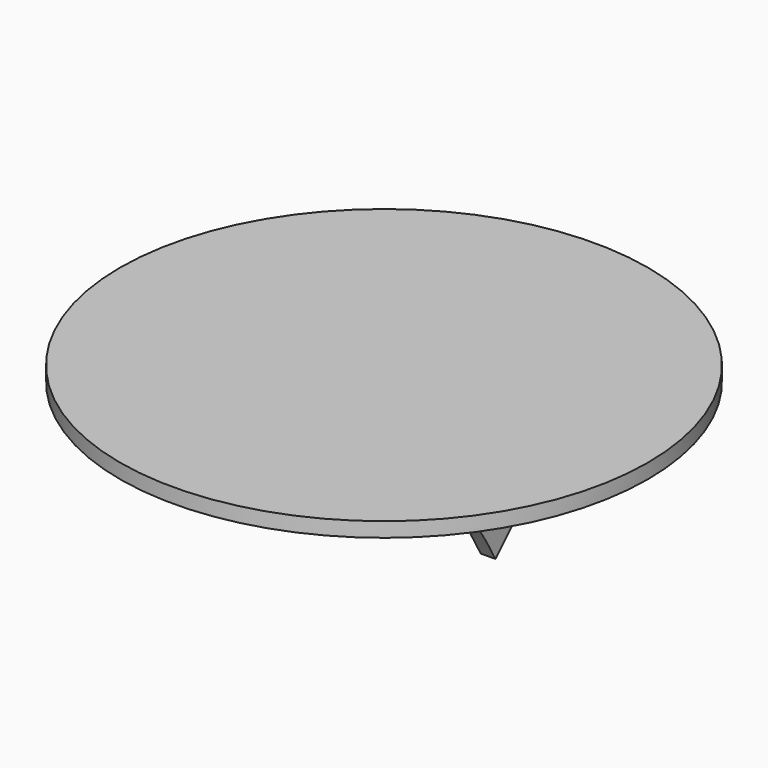
from build123d import *

# Parameters (mm, degrees)
F0_R     = 90
F1_DEPTH = 5
F2_W     = 5
F2_H     = 158.7411967465
F3_DEPTH = 60
F5_DEPTH = 105.001
F6_W     = 5
F6_H     = 24
F7_DEPTH = 60


with BuildPart() as f1:
    # F0 (on Top) → F1 (new body)
    with BuildSketch(Plane.XY):
        Circle(F0_R)
    extrude(amount=F1_DEPTH)

    # F2 (on face) → F3 (join)
    with BuildSketch(Plane(origin=(0, 0, 0), x_dir=(1, 0, 0), z_dir=(0, 0, -1))):
        with Locations((-12.5, -9.3705983732)):
            Rectangle(F2_W, F2_H)
        with Locations((12.5, -9.3705983732)):
            Rectangle(F2_W, F2_H)
    extrude(amount=F3_DEPTH)

    # F4 (on face) → F5 (cut, through all)
    with BuildSketch(Plane(origin=(-15, 0, 0), x_dir=(0, -1, 0), z_dir=(-1, 0, 0))):
        with BuildLine():
            ThreePointArc((70, 0), (12.2292809138, -16.1760337999), (-28.7411967465, -60))
            Line((-28.7411967465, -60), (70, -60))
            Line((70, -60), (70, 0))
        make_face()
        Polygon((-28.7411967465, -60), (-88.7411967465, 0), (-88.7411967465, -60), align=None)
        Polygon((-9.0120032018, -4), (-22.7056628406, -4), (-9.0120032018, -17.6936596388), align=None)
        with BuildLine():
            ThreePointArc((-4.0120032018, -21.6051015865), (9.9209150675, -11.7285602742), (25.1505452626, -4))
            Line((25.1505452626, -4), (-4.0120032018, -4))
            Line((-4.0120032018, -4), (-4.0120032018, -21.6051015865))
        make_face()
        with BuildLine():
            Line((-8.3792846836, -25.3974459688), (-26.2411967465, -7.5355339059))
            Line((-26.2411967465, -7.5355339059), (-26.2411967465, -46.0461292703))
            ThreePointArc((-26.2411967465, -46.0461292703), (-17.9185427782, -35.1955827376), (-8.3792846836, -25.3974459688))
        make_face()
    extrude(amount=-F5_DEPTH, mode=Mode.SUBTRACT)

    # F6 (on face) → F7 (join)
    with BuildSketch(Plane(origin=(-15, 0, 0), x_dir=(0, -1, 0), z_dir=(-1, 0, 0))):
        with Locations((-6.5120032018, -12)):
            Rectangle(F6_W, F6_H)
    extrude(amount=F7_DEPTH)


solid = f1.part
